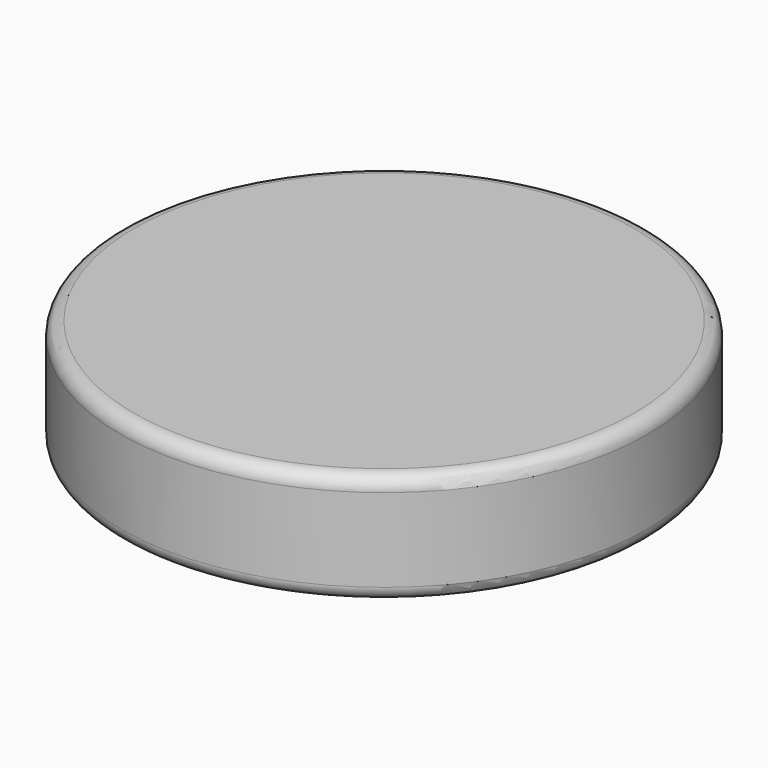
from build123d import *

# Parameters (mm, degrees)
CYLINDER001_R     = 9.5
CYLINDER001_DEPTH = 2
FILLET_R          = 0.5
CYLINDER_R        = 9.5
CYLINDER_DEPTH    = 2
FILLET001_R       = 0.5


with BuildPart() as fillet_body:
    # Cylinder001 → Cylinder001 (new body)
    with BuildSketch(Plane.XY.offset(12)):
        Circle(CYLINDER001_R)
    extrude(amount=CYLINDER001_DEPTH)

    # Fillet
    fillet_edges = [fillet_body.edges().sort_by_distance(p)[0] for p in [
        (-9.5, 0, 14),
    ]]
    fillet(fillet_edges, radius=FILLET_R)


with BuildPart() as disc001:
    # Cylinder → Cylinder (new body)
    with BuildSketch(Plane.XY.offset(11)):
        Circle(CYLINDER_R)
    extrude(amount=CYLINDER_DEPTH)

    # Fillet001
    fillet001_edges = [disc001.edges().sort_by_distance(p)[0] for p in [
        (-9.5, 0, 11),
    ]]
    fillet(fillet001_edges, radius=FILLET001_R)


with BuildPart() as disc001_1:
    # Fillet001 placement: moved
    add(disc001.part.moved(Location((0, 0, -1))))

    # Fusion001: union Fillet body
    add(fillet_body.part)


with BuildPart() as disc001_2:
    # Fusion001 placement: moved
    add(disc001_1.part.moved(Location((17, -18, 0))))


solid = disc001_2.part
